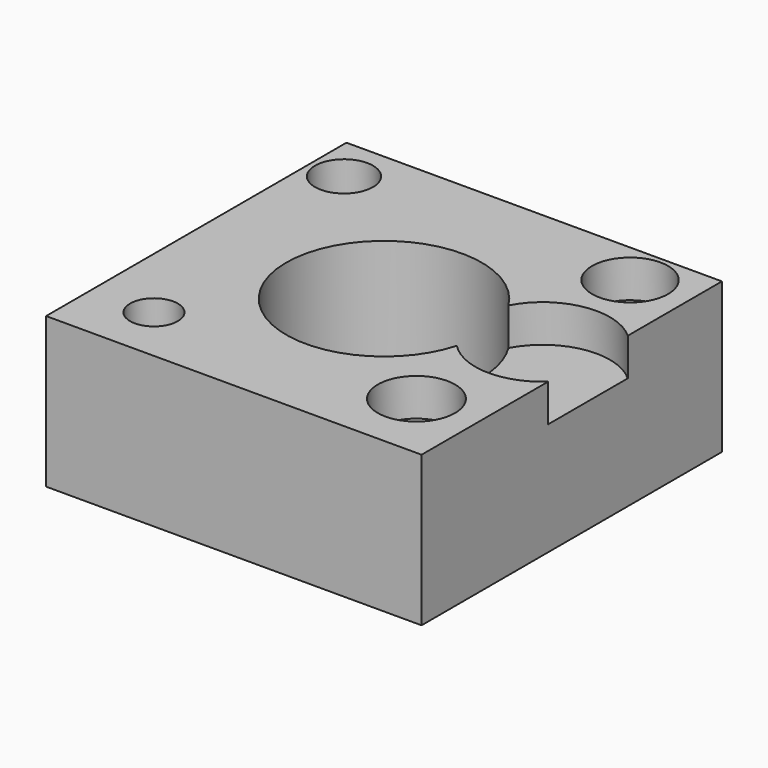
from build123d import *

# Parameters (mm, degrees)
F0_W     = 127
F0_H     = 127
F1_DEPTH = 50.8
F2_R     = 33.083677
F3_DEPTH = 50.801
F4_R     = 9.812618
F4_R_2   = 12.86692
F4_R_3   = 8.071965
F4_R_4   = 13.073277
F4_R_5   = 22.768833
F5_DEPTH = 12.7


with BuildPart() as f1:
    # F0 (on Top) → F1 (new body)
    with BuildSketch(Plane.XY):
        with Locations((0.94142, -6.859615)):
            Rectangle(F0_W, F0_H)
    extrude(amount=F1_DEPTH)

    # F2 (on face) → F3 (cut, through all)
    with BuildSketch(Plane.XY.offset(50.8)):
        with Locations((0.94142, -6.859615)):
            Circle(F2_R)
    extrude(amount=-F3_DEPTH, mode=Mode.SUBTRACT)

    # F4 (on face) → F5 (cut)
    with BuildSketch(Plane.XY.offset(50.8)):
        with Locations((-51.02095, 41.184627)):
            Circle(F4_R)
        with Locations((45.015216, 42.094678)):
            Circle(F4_R_2)
        with Locations((-41.62769, -50.914697)):
            Circle(F4_R_3)
        with Locations((43.389134, -46.201754)):
            Circle(F4_R_4)
        with Locations((49.104106, 0)):
            Circle(F4_R_5)
    extrude(amount=-F5_DEPTH, mode=Mode.SUBTRACT)


solid = f1.part
